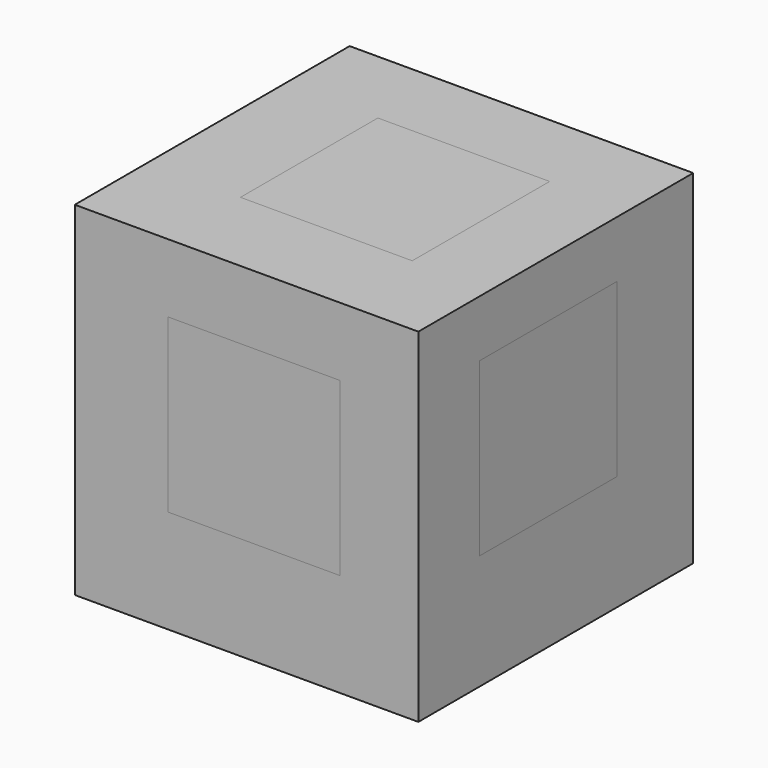
from build123d import *

# Parameters (mm, degrees)
F0_W      = 25.4
F0_H      = 25.4
F1_DEPTH  = 25.4
F2_W      = 12.7
F2_H      = 12.7
F3_DEPTH  = 3.175
F4_W      = 12.7
F4_H      = 12.7000006628
F5_DEPTH  = 3.175
F6_W      = 12.7
F6_H      = 12.7
F7_DEPTH  = 3.175
F8_W      = 12.7
F8_H      = 12.7
F9_DEPTH  = 3.175
F10_W     = 12.7
F10_H     = 12.7
F11_DEPTH = 3.175
F12_W     = 12.7
F12_H     = 12.7
F13_DEPTH = 3.175
F14_W     = 12.7
F14_H     = 12.7
F15_DEPTH = 3.175
F16_W     = 12.7
F16_H     = 12.7
F17_DEPTH = 3.175
F18_W     = 12.7
F18_H     = 12.7
F19_DEPTH = 3.175
F20_W     = 12.7
F20_H     = 12.7
F21_DEPTH = 3.175
F22_W     = 12.7
F22_H     = 12.7
F23_DEPTH = 3.175
F24_W     = 12.7
F24_H     = 12.7000006628
F25_DEPTH = 3.175


with BuildPart() as f1:
    # F0 (on Front) → F1 (new body)
    with BuildSketch(Plane.XZ):
        with Locations((-1.4024831682, 6.2951807261)):
            Rectangle(F0_W, F0_H)
    extrude(amount=F1_DEPTH)

    # F2 (on face) → F3 (cut)
    with BuildSketch(Plane.XZ.offset(25.4)):
        with Locations((-0.8634164697, 7.5849762818)):
            Rectangle(F2_W, F2_H)
    extrude(amount=-F3_DEPTH, mode=Mode.SUBTRACT)

    # F4 (on face) → F5 (cut)
    with BuildSketch(Plane(origin=(0, 0, -6.4048192739), x_dir=(1, 0, 0), z_dir=(0, 0, -1))):
        with Locations((-0.1439023763, 11.0805218574)):
            Rectangle(F4_W, F4_H)
    extrude(amount=-F5_DEPTH, mode=Mode.SUBTRACT)

    # F6 (on face) → F7 (cut)
    with BuildSketch(Plane.YZ.offset(11.2975168318)):
        with Locations((-13.3829680271, 8.4517158097)):
            Rectangle(F6_W, F6_H)
    extrude(amount=-F7_DEPTH, mode=Mode.SUBTRACT)

    # F8 (on face) → F9 (cut)
    with BuildSketch(Plane(origin=(0, 0, 0), x_dir=(-1, 0, 0), z_dir=(0, 1, 0))):
        with Locations((6.35, 6.35)):
            Rectangle(F8_W, F8_H)
    extrude(amount=-F9_DEPTH, mode=Mode.SUBTRACT)

    # F10 (on face) → F11 (cut)
    with BuildSketch(Plane(origin=(-14.1024831682, 0, 0), x_dir=(0, -1, 0), z_dir=(-1, 0, 0))):
        with Locations((17.8593740769, 6.35)):
            Rectangle(F10_W, F10_H)
    extrude(amount=-F11_DEPTH, mode=Mode.SUBTRACT)

    # F12 (on face) → F13 (cut)
    with BuildSketch(Plane.XY.offset(18.9951807261)):
        with Locations((-0.8634165861, -12.3524442453)):
            Rectangle(F12_W, F12_H)
    extrude(amount=-F13_DEPTH, mode=Mode.SUBTRACT)


with BuildPart() as f15:
    # F14 (on face) → F15 (new body)
    with BuildSketch(Plane.XY.offset(15.8201807261)):
        with Locations((-0.8634165861, -12.3524442453)):
            Rectangle(F14_W, F14_H)
    extrude(amount=F15_DEPTH)


with BuildPart() as f17:
    # F16 (on face) → F17 (new body)
    with BuildSketch(Plane.YZ.offset(8.1225168318)):
        with Locations((-13.3829680271, 8.4517158097)):
            Rectangle(F16_W, F16_H)
    extrude(amount=F17_DEPTH)


with BuildPart() as f19:
    # F18 (on face) → F19 (new body)
    with BuildSketch(Plane(origin=(0, -3.175, 0), x_dir=(-1, 0, 0), z_dir=(0, 1, 0))):
        with Locations((6.35, 6.35)):
            Rectangle(F18_W, F18_H)
    extrude(amount=F19_DEPTH)


with BuildPart() as f21:
    # F20 (on face) → F21 (new body)
    with BuildSketch(Plane(origin=(-10.9274831682, 0, 0), x_dir=(0, -1, 0), z_dir=(-1, 0, 0))):
        with Locations((17.8593740769, 6.35)):
            Rectangle(F20_W, F20_H)
    extrude(amount=F21_DEPTH)


with BuildPart() as f23:
    # F22 (on face) → F23 (new body)
    with BuildSketch(Plane.XZ.offset(22.225)):
        with Locations((-0.8634164697, 7.5849762818)):
            Rectangle(F22_W, F22_H)
    extrude(amount=F23_DEPTH)


with BuildPart() as f25:
    # F24 (on face) → F25 (new body)
    with BuildSketch(Plane(origin=(0, 0, -3.2298192739), x_dir=(1, 0, 0), z_dir=(0, 0, -1))):
        with Locations((-0.1439023763, 11.0805218574)):
            Rectangle(F24_W, F24_H)
    extrude(amount=F25_DEPTH)


solid = Compound([f1.part, f15.part, f17.part, f19.part, f21.part, f23.part, f25.part])
